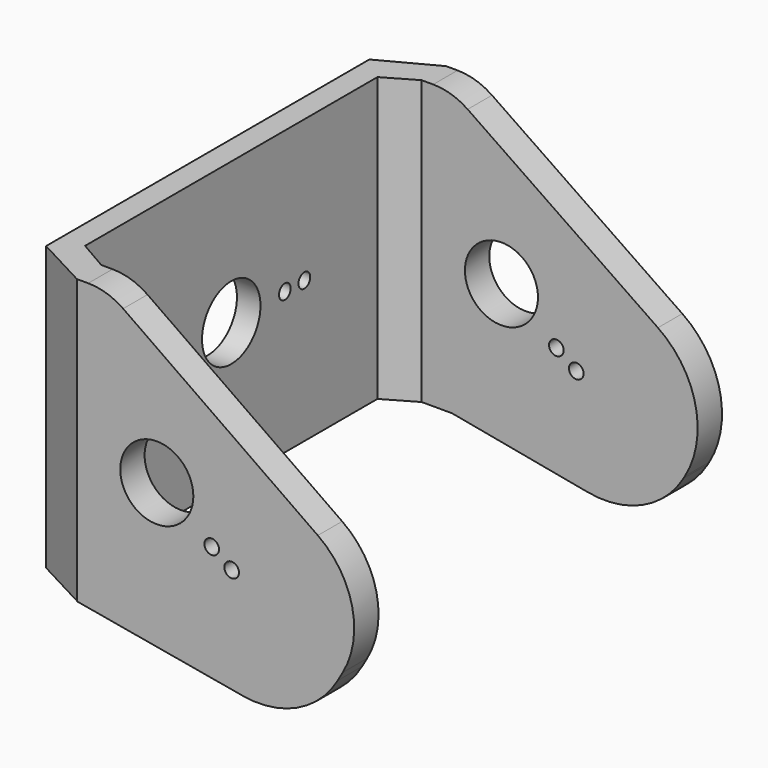
from build123d import *

# Parameters (mm, degrees)
PAD_DEPTH       = 5
PAD001_DEPTH    = 46.52
SKETCH002_W     = 5
SKETCH002_H     = 5
PAD002_DEPTH    = 46.52
PAD003_DEPTH    = 5
SKETCH004_R     = 6
SKETCH004_R_2   = 1.2
POCKET_DEPTH    = 5
SKETCH005_R     = 6
SKETCH005_R_2   = 1.2
POCKET001_DEPTH = 75.732575
FILLET_R        = 14
FILLET001_R     = 15
FILLET002_R     = 15
FILLET003_R     = 15
FILLET004_R     = 10
FILLET005_R     = 10


with BuildPart() as part:
    # Sketch → Pad (new body)
    with BuildSketch(Plane.XZ):
        Polygon((0, 0), (37.553362, -6.621671), (50.053362, 15.028964), (5, 46.575668), (0, 46.575668), align=None)
    extrude(amount=PAD_DEPTH)

    # Sketch001 → Pad001 (new body)
    with BuildSketch(Plane(origin=(0, 0, 46.575668), x_dir=(-1, 0, 0), z_dir=(0, 0, 1))):
        Polygon((0, 5), (8.829476, 0.305284), (8.829476, -66.03686), (0, -70.731575), (0, -65.731575), (4.96369, -62.865788), (4.96369, -2.865788), (0, 0), align=None)
    extrude(amount=-PAD001_DEPTH)

    # Sketch002 → Pad002 (new body)
    with BuildSketch(Plane(origin=(0, 0, 46.575668), x_dir=(-1, 0, 0), z_dir=(0, 0, 1))):
        with Locations((-2.5, -68.231575)):
            Rectangle(SKETCH002_W, SKETCH002_H)
    extrude(amount=-PAD002_DEPTH)

    # Sketch003 → Pad003 (new body)
    with BuildSketch(Plane(origin=(0, 70.731575, 0), x_dir=(1, 0, 0), z_dir=(0, 1, 0))):
        Polygon((5, -0.055668), (5, -46.575668), (50.368156, -15.48338), (37.651222, 6.040551), align=None)
    extrude(amount=-PAD003_DEPTH)

    # Sketch004 → Pocket (cut)
    with BuildSketch(Plane(origin=(-8.829476, 0, 0), x_dir=(0, 0, -1), z_dir=(-1, 0, 0))):
        with Locations((-23.287834, -32.865788)):
            Circle(SKETCH004_R)
        with Locations((-23.287834, -21.865788)):
            Circle(SKETCH004_R_2)
        with Locations((-23.287834, -17.865788)):
            Circle(SKETCH004_R_2)
        with Locations((-23.287834, -43.865788)):
            Circle(SKETCH004_R_2)
        with Locations((-23.287834, -47.865788)):
            Circle(SKETCH004_R_2)
    extrude(amount=-POCKET_DEPTH, mode=Mode.SUBTRACT)

    # Sketch005 → Pocket001 (cut, through all)
    with BuildSketch(Plane.XZ.offset(5)):
        with Locations((13.106433, 21.398445)):
            Circle(SKETCH005_R)
        with Locations((22.117105, 15.089104)):
            Circle(SKETCH005_R_2)
        with Locations((25.393713, 12.794799)):
            Circle(SKETCH005_R_2)
    extrude(amount=-POCKET001_DEPTH, mode=Mode.SUBTRACT)

    # Fillet
    fillet_edges = [part.edges().sort_by_distance(p)[0] for p in [
        (50.053362, -2.5, 15.028964),
    ]]
    fillet(fillet_edges, radius=FILLET_R)

    # Fillet001
    fillet001_edges = [part.edges().sort_by_distance(p)[0] for p in [
        (37.553362, -2.5, -6.621671),
    ]]
    fillet(fillet001_edges, radius=FILLET001_R)

    # Fillet002
    fillet002_edges = [part.edges().sort_by_distance(p)[0] for p in [
        (50.368156, 68.231575, 15.48338),
    ]]
    fillet(fillet002_edges, radius=FILLET002_R)

    # Fillet003
    fillet003_edges = [part.edges().sort_by_distance(p)[0] for p in [
        (37.651222, 68.231575, -6.040551),
    ]]
    fillet(fillet003_edges, radius=FILLET003_R)

    # Fillet004
    fillet004_edges = [part.edges().sort_by_distance(p)[0] for p in [
        (5, -2.5, 46.575668),
    ]]
    fillet(fillet004_edges, radius=FILLET004_R)

    # Fillet005
    fillet005_edges = [part.edges().sort_by_distance(p)[0] for p in [
        (5, 68.231575, 46.575668),
    ]]
    fillet(fillet005_edges, radius=FILLET005_R)


solid = part.part
